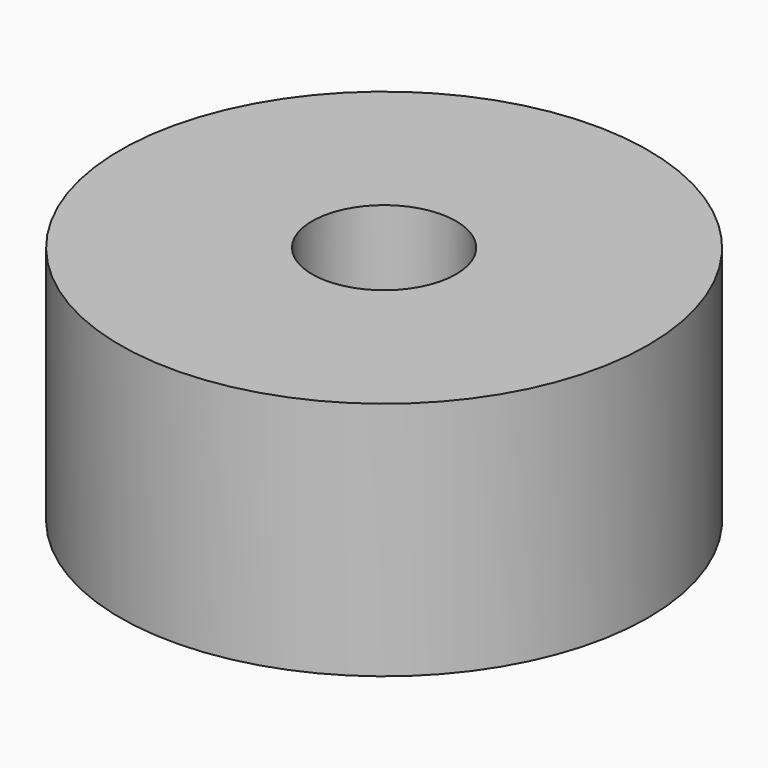
from build123d import *

# Parameters (mm, degrees)
F0_R     = 34.925
F0_R_2   = 9.525
F1_DEPTH = 31.75


with BuildPart() as f1:
    # F0 (on Top) → F1 (new body)
    with BuildSketch(Plane.XY):
        with Locations((0.329228, 0.498643)):
            Circle(F0_R)
        with Locations((0.329228, 0.498643)):
            Circle(F0_R_2, mode=Mode.SUBTRACT)
        with Locations((0.329228, 0.498643)):
            Circle(F0_R)
        with Locations((0.329228, 0.498643)):
            Circle(F0_R_2, mode=Mode.SUBTRACT)
    extrude(amount=F1_DEPTH)


solid = f1.part
